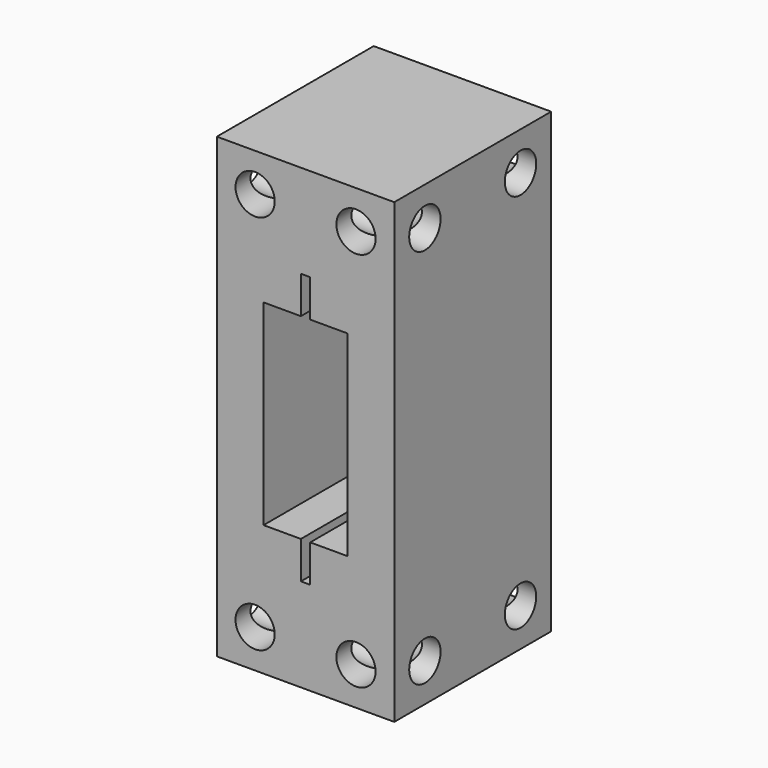
from build123d import *

# Parameters (mm, degrees)
F0_W     = 19
F0_H     = 49
F0_W_2   = 9
F0_H_2   = 21
F1_DEPTH = 21
F2_W     = 1
F2_H     = 4
F3_DEPTH = 25
F4_R     = 2.1
F5_DEPTH = 25
F6_R     = 2.1
F7_DEPTH = 25


with BuildPart() as f1:
    # F0 (on Front) → F1 (new body)
    with BuildSketch(Plane.XZ):
        with Locations((-21.999743, 10.5)):
            Rectangle(F0_W, F0_H)
        with Locations((-21.999743, 10.5)):
            Rectangle(F0_W_2, F0_H_2, mode=Mode.SUBTRACT)
    extrude(amount=F1_DEPTH)

    # F2 (on face) → F3 (cut)
    with BuildSketch(Plane.XZ.offset(21)):
        with Locations((-21.999743, 23)):
            Rectangle(F2_W, F2_H)
        with Locations((-21.999743, -2)):
            Rectangle(F2_W, F2_H)
    extrude(amount=-F3_DEPTH, mode=Mode.SUBTRACT)

    # F4 (on face) → F5 (cut)
    with BuildSketch(Plane(origin=(0, 0, 0), x_dir=(-1, 0, 0), z_dir=(0, 1, 0))):
        with Locations((16.599743, 30.9)):
            Circle(F4_R)
        with Locations((16.599743, -9.9)):
            Circle(F4_R)
        with Locations((27.399743, -9.9)):
            Circle(F4_R)
        with Locations((27.399743, 30.9)):
            Circle(F4_R)
    extrude(amount=-F5_DEPTH, mode=Mode.SUBTRACT)

    # F6 (on face) → F7 (cut)
    with BuildSketch(Plane.YZ.offset(-12.499743)):
        with Locations((-16.9, 30.9)):
            Circle(F6_R)
        with Locations((-16.9, -9.9)):
            Circle(F6_R)
        with Locations((-4.1, 30.9)):
            Circle(F6_R)
        with Locations((-4.1, -9.9)):
            Circle(F6_R)
    extrude(amount=-F7_DEPTH, mode=Mode.SUBTRACT)


solid = f1.part
